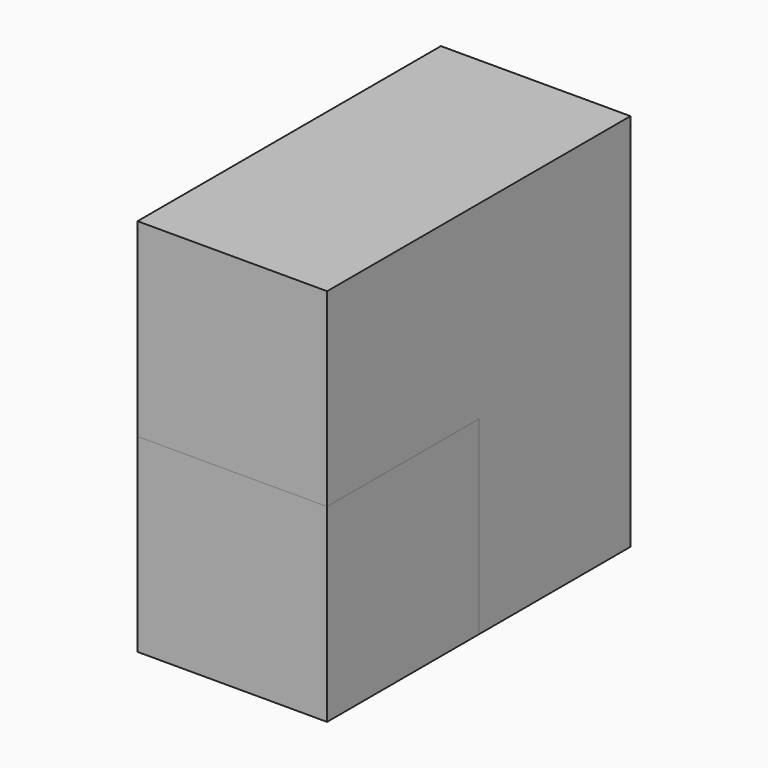
from build123d import *

# Parameters (mm, degrees)
F0_W     = 25.4
F0_H     = 50.8
F1_DEPTH = 25.4
F2_W     = 25.4
F2_H     = 25.4
F3_DEPTH = 25.4
F4_W     = 25.4
F4_H     = 25.4
F5_DEPTH = 25.4


with BuildPart() as f1:
    # F0 (on Front) → F1 (new body)
    with BuildSketch(Plane.XZ):
        with Locations((12.7, 25.4)):
            Rectangle(F0_W, F0_H)
    extrude(amount=F1_DEPTH)

    # F2 (on face) → F3 (join)
    with BuildSketch(Plane.XZ.offset(25.4)):
        with Locations((12.7, 38.1)):
            Rectangle(F2_W, F2_H)
    extrude(amount=F3_DEPTH)


with BuildPart() as f5:
    # F4 (on face) → F5 (new body)
    with BuildSketch(Plane.YZ.offset(25.4)):
        with Locations((-38.1, 12.7)):
            Rectangle(F4_W, F4_H)
    extrude(amount=-F5_DEPTH)


solid = Compound([f1.part, f5.part])
